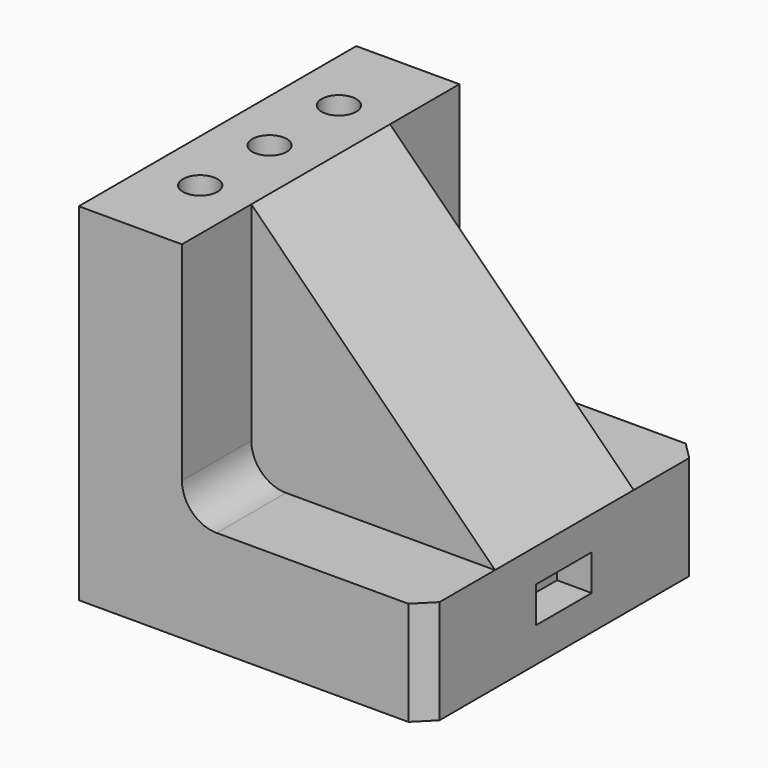
from build123d import *

# Parameters (mm, degrees)
F0_W      = 100
F0_H      = 100
F1_DEPTH  = 100
F2_R      = 5
F3_DEPTH  = 100
F5_DEPTH  = 25
F8_DEPTH  = 25
F10_DEPTH = 25
F11_DEPTH = 25
F12_SIZE  = 5
F14_DEPTH = 10


with BuildPart() as f1:
    # F0 (on Top) → F1 (new body)
    with BuildSketch(Plane.XY):
        with Locations((50, 50)):
            Rectangle(F0_W, F0_H)
    extrude(amount=F1_DEPTH)

    # F2 (on face) → F3 (cut)
    with BuildSketch(Plane.XY.offset(100)):
        with Locations((15, 25)):
            Circle(F2_R)
        with Locations((15, 50)):
            Circle(F2_R)
        with Locations((15, 75)):
            Circle(F2_R)
    extrude(amount=-F3_DEPTH, mode=Mode.SUBTRACT)

    # F4 (on face) → F5 (cut)
    with BuildSketch(Plane.XZ):
        with BuildLine():
            Line((39.7404471785, 30), (50, 30))
            Line((50, 30), (100, 30))
            Line((100, 30), (100, 100))
            Line((100, 100), (29.7404471785, 100))
            Line((29.7404471785, 100), (29.7404471785, 40))
            ThreePointArc((29.7404471785, 40), (32.6693793666, 32.9289321881), (39.7404471785, 30))
        make_face()
    extrude(amount=-F5_DEPTH, mode=Mode.SUBTRACT)

    # F7 (on face) → F8 (cut)
    with BuildSketch(Plane(origin=(0, 100, 0), x_dir=(-1, 0, 0), z_dir=(0, 1, 0))):
        with BuildLine():
            Line((-100, 30), (-39.7373309731, 30))
            ThreePointArc((-39.7373309731, 30), (-32.6662631613, 32.9289321881), (-29.7373309731, 40))
            Line((-29.7373309731, 40), (-29.7373309731, 100))
            Line((-29.7373309731, 100), (-100, 100))
            Line((-100, 100), (-100, 30))
        make_face()
    extrude(amount=-F8_DEPTH, mode=Mode.SUBTRACT)

    # F9 (on face) → F10 (cut)
    with BuildSketch(Plane.XZ.offset(-25)):
        Polygon((100, 100), (29.7404471785, 100), (100, 30), align=None)
    extrude(amount=-F10_DEPTH, mode=Mode.SUBTRACT)

    # F11 (cut): a face of the model
    f11_faces = [f1.faces().sort_by_distance(p)[0] for p in [
        (76.5801490595, 50, 76.6666666667),
    ]]
    extrude(f11_faces, amount=-F11_DEPTH, mode=Mode.SUBTRACT)

    # F12
    f12_edges = [f1.edges().sort_by_distance(p)[0] for p in [
        (100, 0, 15),
        (100, 100, 15),
    ]]
    chamfer(f12_edges, length=F12_SIZE)

    # F13 (on face) → F14 (cut)
    with BuildSketch(Plane.YZ.offset(100)):
        Polygon((39.8671727255, 10), (49.8671727255, 10), (59.8671727255, 10), (59.8671727255, 20.3688494319), (39.8671727255, 20.3688494319), align=None)
    extrude(amount=-F14_DEPTH, mode=Mode.SUBTRACT)


solid = f1.part
